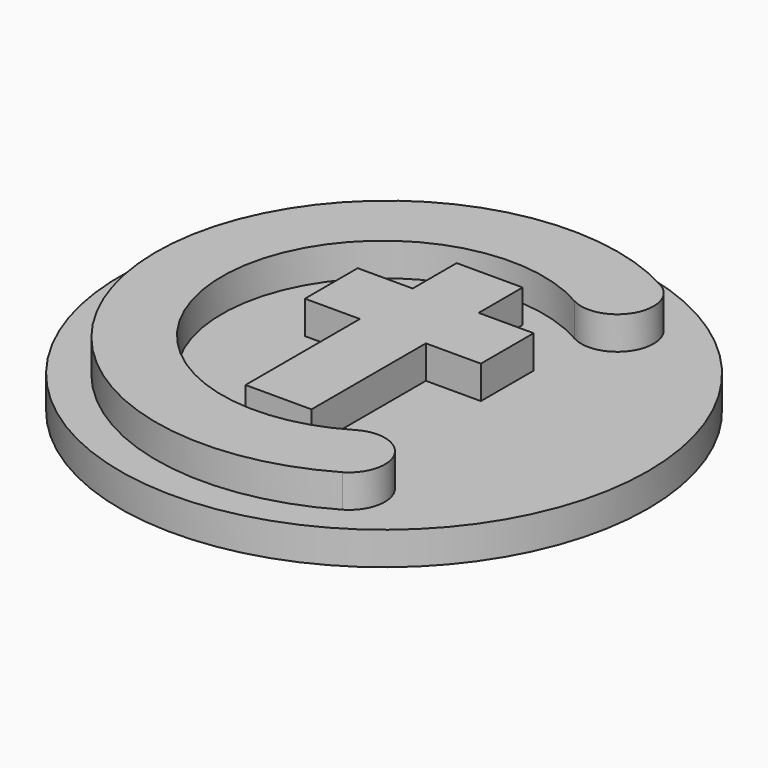
from build123d import *

# Parameters (mm, degrees)
F0_R     = 25.4
F1_DEPTH = 3.175
F2_W     = 3.175
F2_H     = 5.2916666667
F2_H_2   = 6.35
F2_W_2   = 5.2916666667
F2_H_3   = 13.7583333333
F3_DEPTH = 3.175


with BuildPart() as f1:
    # F0 (on Top) → F1 (new body)
    with BuildSketch(Plane.XY):
        Circle(F0_R)
    extrude(amount=F1_DEPTH)

    # F2 (on face) → F3 (join)
    with BuildSketch(Plane.XY.offset(3.175)):
        with BuildLine():
            ThreePointArc((7.6158286859, 13.4004975857), (12.3428438476, 14.7800857354), (10.9632556979, 19.507100897))
            ThreePointArc((10.9632556979, 19.507100897), (-21.9435583177, -0.2281861691), (11.3925767917, -19.2292929842))
            ThreePointArc((11.3925767917, -19.2292929842), (12.5870002145, -14.4702118742), (7.8279191045, -13.2757884514))
            ThreePointArc((7.8279191045, -13.2757884514), (-15.5940249542, -0.1230190166), (7.6158286859, 13.4004975857))
        make_face()
        with Locations((-1.5875, 10.0541666667)):
            Rectangle(F2_W, F2_H)
        with Locations((1.5875, 10.0541666667)):
            Rectangle(F2_W, F2_H)
        with Locations((1.5875, 4.2333333333)):
            Rectangle(F2_W, F2_H_2)
        with Locations((5.8208333333, 4.2333333333)):
            Rectangle(F2_W_2, F2_H_2)
        with Locations((-1.5875, 4.2333333333)):
            Rectangle(F2_W, F2_H_2)
        with Locations((-5.8208333333, 4.2333333333)):
            Rectangle(F2_W_2, F2_H_2)
        with Locations((-1.5875, -5.8208333333)):
            Rectangle(F2_W, F2_H_3)
        with Locations((1.5875, -5.8208333333)):
            Rectangle(F2_W, F2_H_3)
    extrude(amount=F3_DEPTH)


solid = f1.part
